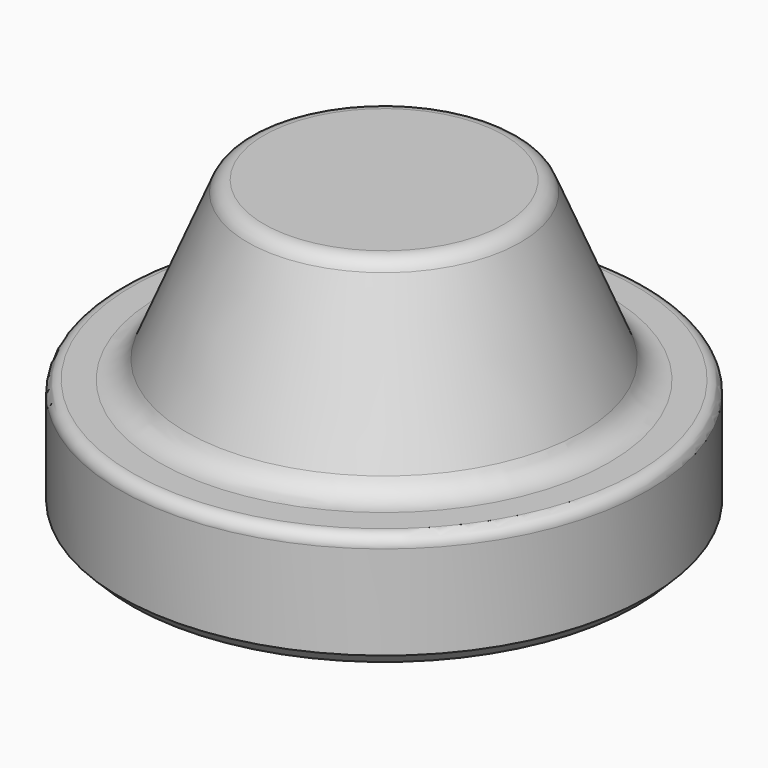
from build123d import *

# Parameters (mm, degrees)
F2_SIZE = 2


with BuildPart() as f1:
    # F0 (on Front) → F1 (revolve)
    with BuildSketch(Plane.XZ):
        with BuildLine():
            Line((20.5, 50), (0, 50))
            Line((0, 50), (0, 0))
            Line((0, 0), (45, 0))
            Line((45, 0), (45, 18))
            ThreePointArc((45, 18), (44.414214, 19.414214), (43, 20))
            Line((43, 20), (38.333333, 20))
            ThreePointArc((38.333333, 20), (35.559832, 20.839749), (33.717949, 23.076923))
            Line((33.717949, 23.076923), (23.269231, 48.153846))
            ThreePointArc((23.269231, 48.153846), (22.164101, 49.496151), (20.5, 50))
        make_face()
    revolve(axis=Axis((0, 0, 18.241253), (0, 0, -1)))

    # F2
    f2_edges = [f1.edges().sort_by_distance(p)[0] for p in [
        (-45, 0, 0),
    ]]
    chamfer(f2_edges, length=F2_SIZE)


solid = f1.part
